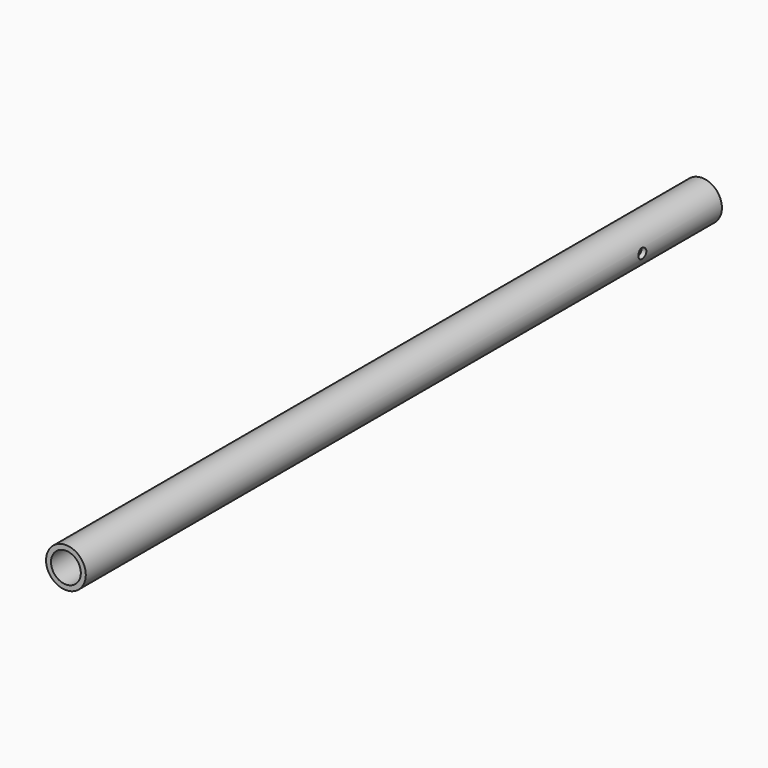
from build123d import *

# Parameters (mm, degrees)
F0_R     = 25.4
F0_R_2   = 19.05
F1_DEPTH = 508
F4_R     = 6.35
F5_DEPTH = 25.4
F3_R     = 6.35
F6_DEPTH = 25.4


with BuildPart() as f1:
    # F0 (on Front) → F1 (new body, symmetric)
    with BuildSketch(Plane.XZ):
        Circle(F0_R)
        Circle(F0_R_2, mode=Mode.SUBTRACT)
    extrude(amount=F1_DEPTH, both=True)

    # F4 (on Top) → F5 (cut)
    with BuildSketch(Plane.XY):
        with Locations((0, 488.95)):
            Circle(F4_R)
        with Locations((0, 266.7)):
            Circle(F4_R)
    extrude(amount=-F5_DEPTH, mode=Mode.SUBTRACT)

    # F3 (on Right) → F6 (cut, symmetric)
    with BuildSketch(Plane.YZ):
        with Locations((381, 0)):
            Circle(F3_R)
    extrude(amount=F6_DEPTH, both=True, mode=Mode.SUBTRACT)


solid = f1.part
